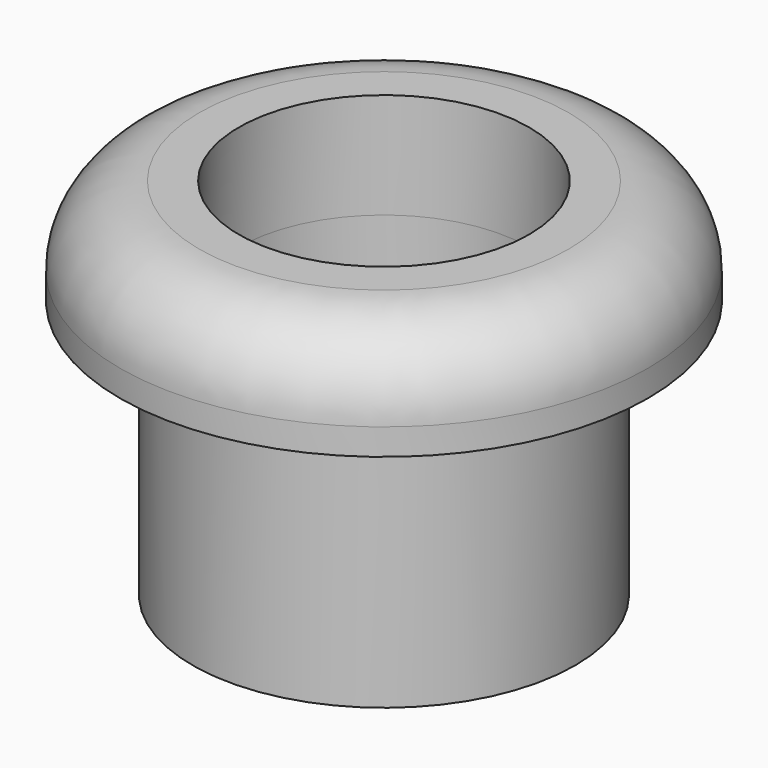
from build123d import *

# Parameters (mm, degrees)
F0_R     = 10
F0_R_2   = 7.25
F0_R_3   = 5.5
F1_DEPTH = 4
F2_R     = 3
F3_DEPTH = 9.8


with BuildPart() as f1:
    # F0 (on Top) → F1 (new body)
    with BuildSketch(Plane.XY):
        Circle(F0_R)
        Circle(F0_R_2, mode=Mode.SUBTRACT)
        Circle(F0_R_2)
        Circle(F0_R_3, mode=Mode.SUBTRACT)
    extrude(amount=F1_DEPTH)

    # F2
    f2_edges = [f1.edges().sort_by_distance(p)[0] for p in [
        (-10, 0, 4),
    ]]
    fillet(f2_edges, radius=F2_R)

    # F0 (on Top) → F3 (join)
    with BuildSketch(Plane.XY):
        Circle(F0_R_2)
        Circle(F0_R_3, mode=Mode.SUBTRACT)
    extrude(amount=-F3_DEPTH)


solid = f1.part
